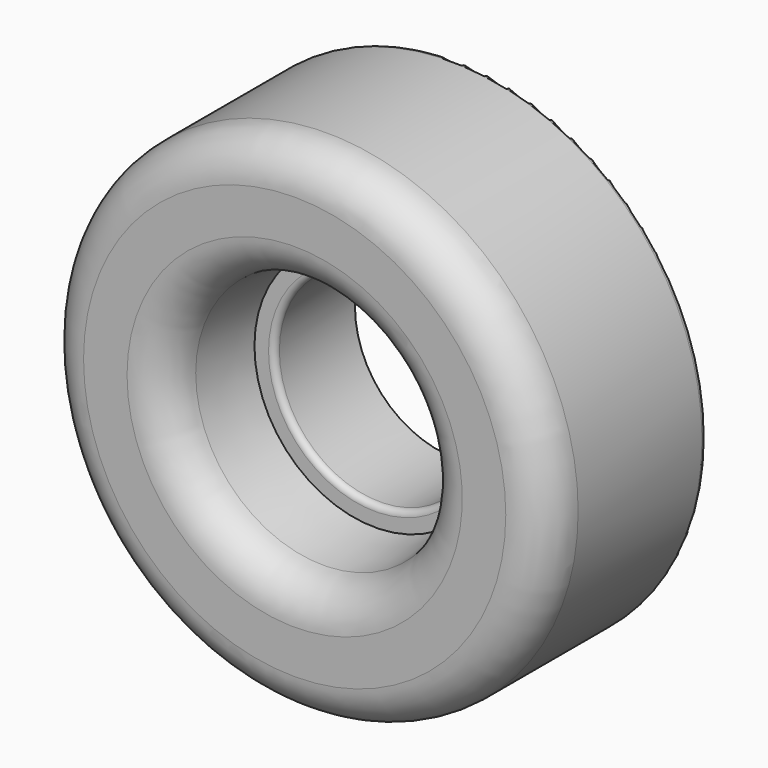
from build123d import *

# Parameters (mm, degrees)
F0_R     = 15.875
F1_DEPTH = 12.7
F4_R     = 2.54
F5_R     = 0.381


with BuildPart() as f1:
    # F0 (on Front) → F1 (new body)
    with BuildSketch(Plane.XZ):
        Circle(F0_R)
    extrude(amount=F1_DEPTH)

    # F2 (on Top) → F3 (revolve, cut)
    with BuildSketch(Plane.XY):
        Polygon((0, -12.7), (0, 0), (-6.35, 0), (-6.35, -6.35), (-7.62, -6.35), (-8.3100605367, -12.7), align=None)
        Polygon((-9.4797436824, -11.43), (-8.2376347163, 0), (-14.3230315298, 0), (-14.3230315298, -11.43), align=None)
    revolve(axis=Axis((0, -6.35, 0), (0, -1, 0)), mode=Mode.SUBTRACT)

    # F4
    f4_edges = [f1.edges().sort_by_distance(p)[0] for p in [
        (-15.875, -12.7, 0),
        (8.310061, -12.7, 0),
    ]]
    fillet(f4_edges, radius=F4_R)

    # F5
    f5_edges = [f1.edges().sort_by_distance(p)[0] for p in [
        (-15.875, 0, 0),
        (6.35, -6.35, 0),
    ]]
    fillet(f5_edges, radius=F5_R)


solid = f1.part
